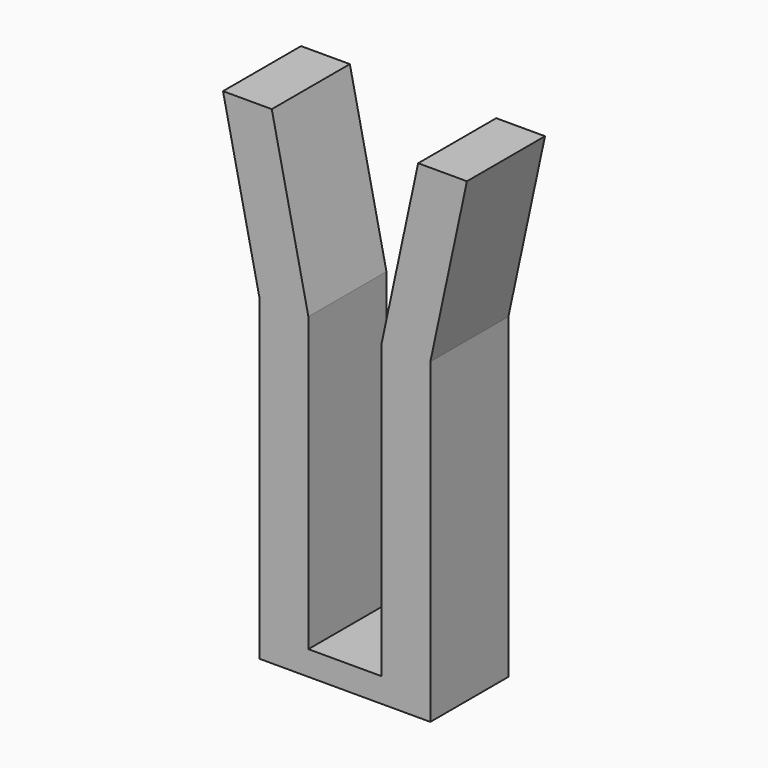
from build123d import *

# Parameters (mm, degrees)
PAD_DEPTH = 4


with BuildPart() as part:
    # Sketch → Pad (new body)
    with BuildSketch(Plane.XZ):
        Polygon((3, 19), (1.5, 12), (1.5, 0), (-1.5, 0), (-1.5, 12), (-3, 19), (-5, 19), (-3.5, 12), (-3.5, -1), (3.5, -1), (3.5, 12), (5, 19), align=None)
    extrude(amount=PAD_DEPTH)


solid = part.part
